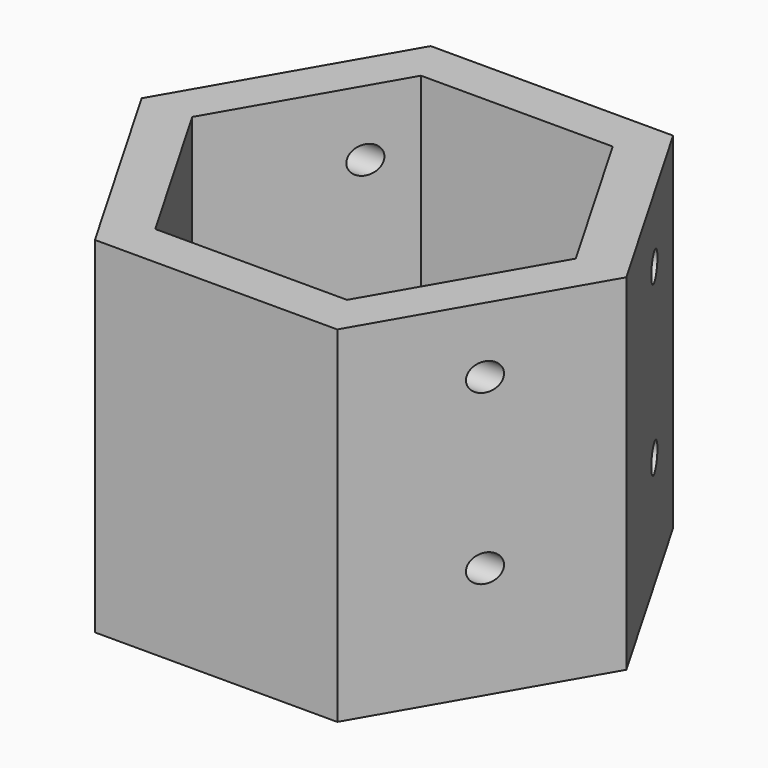
from build123d import *

# Parameters (mm, degrees)
F1_DEPTH = 31.75
F3_D     = 2.54


with BuildPart() as f1:
    # F0 (on Top) → F1 (new body)
    with BuildSketch(Plane.XY):
        Polygon((-7.939773, 39.316174), (-30.21069, 39.316174), (-41.346149, 20.028993), (-30.21069, 0.741813), (-7.939773, 0.741813), (3.195686, 20.028993), align=None)
        Polygon((-36.696177, 20.028993), (-27.885704, 35.28918), (-10.264759, 35.28918), (-1.454287, 20.028993), (-10.264759, 4.768807), (-27.885704, 4.768807), align=None, mode=Mode.SUBTRACT)
    extrude(amount=F1_DEPTH)

    # F3 (through all)
    with Locations(Plane.YZ):
        with Locations((10.597352, 25.751563), (31.580105, 25.751563), (31.580105, 10.279431), (10.597352, 10.279431)):
            Hole(F3_D / 2)


solid = f1.part
